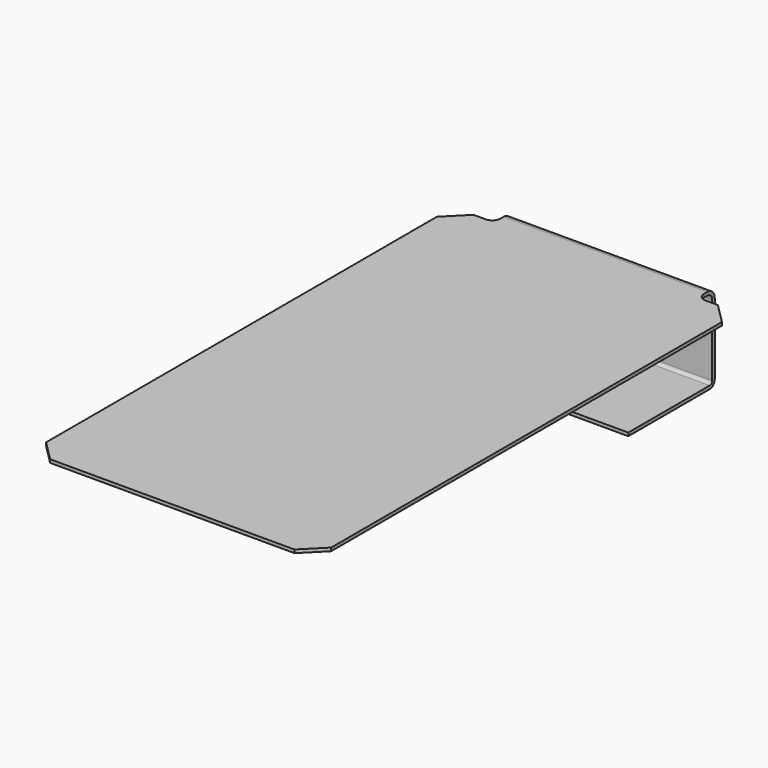
from build123d import *

# Parameters (mm, degrees)
F0_W      = 70
F0_H      = 130
F1_DEPTH  = 0.8
F2_SIZE   = 5
F3_W      = 50
F3_H      = 0.8
F4_DEPTH  = 3
F5_W      = 50
F5_H      = 0.8
F6_ANGLE  = 90
F7_DEPTH  = 17.5
F8_W      = 50
F8_H      = 0.8
F9_ANGLE  = 90
F10_DEPTH = 25
F11_R     = 2


with BuildPart() as f1:
    # F0 (on Top) → F1 (new body)
    with BuildSketch(Plane.XY):
        with Locations((-5.7087102905, -38.4061143195)):
            Rectangle(F0_W, F0_H)
    extrude(amount=F1_DEPTH)

    # F2
    f2_edges = [f1.edges().sort_by_distance(p)[0] for p in [
        (-40.70871, -103.406114, 0.4),
        (29.29129, -103.406114, 0.4),
        (29.29129, 26.593886, 0.4),
        (-40.70871, 26.593886, 0.4),
    ]]
    chamfer(f2_edges, length=F2_SIZE)

    # F3 (on face) → F4 (join)
    with BuildSketch(Plane(origin=(0, 26.5938856805, 0), x_dir=(-1, 0, 0), z_dir=(0, 1, 0))):
        with Locations((5.7087102905, 0.4)):
            Rectangle(F3_W, F3_H)
    extrude(amount=F4_DEPTH)

    # F5 (on face) → F6 (revolve)
    with BuildSketch(Plane(origin=(0, 29.5938856805, 0), x_dir=(-1, 0, 0), z_dir=(0, 1, 0))):
        with Locations((5.7087102905, 0.4)):
            Rectangle(F5_W, F5_H)
    revolve(axis=Axis((-7.0197554305, 29.5938856805, -1.5), (-1, 0, 0)), revolution_arc=F6_ANGLE)

    # F7 (add): a face of the model
    f7_faces = [f1.faces().sort_by_distance(p)[0] for p in [
        (-5.7087102905, 31.4938856805, -1.5),
    ]]
    extrude(f7_faces, amount=F7_DEPTH)

    # F8 (on face) → F9 (revolve)
    with BuildSketch(Plane(origin=(0, 0, -19), x_dir=(1, 0, 0), z_dir=(0, 0, -1))):
        with Locations((-5.7087102905, -31.4938856805)):
            Rectangle(F8_W, F8_H)
    revolve(axis=Axis((-5.6677348912, 30.3438856805, -19), (-1, 0, 0)), revolution_arc=F9_ANGLE)

    # F10 (add): a face of the model
    f10_faces = [f1.faces().sort_by_distance(p)[0] for p in [
        (-5.7087102905, 30.3438856805, -20.15),
    ]]
    extrude(f10_faces, amount=F10_DEPTH)

    # F11
    f11_edges = [f1.edges().sort_by_distance(p)[0] for p in [
        (-30.70871, 26.593886, 0.4),
        (19.29129, 26.593886, 0.4),
    ]]
    fillet(f11_edges, radius=F11_R)


solid = f1.part
